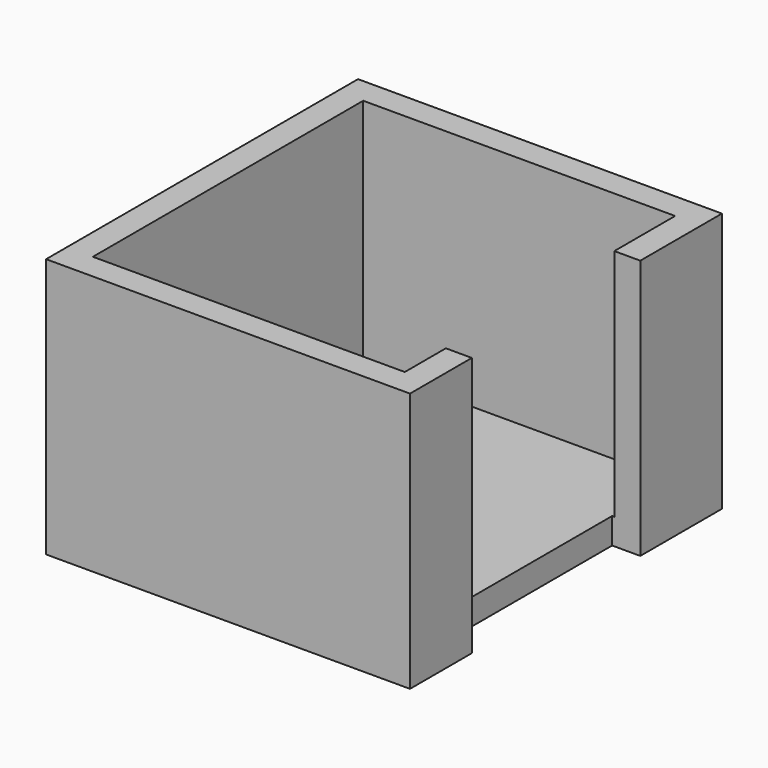
from build123d import *

# Parameters (mm, degrees)
F0_W     = 35.56
F0_H     = 38.1
F1_DEPTH = 25.4
F2_T     = -2.54
F3_W     = 25.4
F3_H     = 20.575015
F4_DEPTH = 25.4


with BuildPart() as f1:
    # F0 (on Top) → F1 (new body)
    with BuildSketch(Plane.XY):
        Rectangle(F0_W, F0_H)
    extrude(amount=F1_DEPTH)

    # F2
    f2_openings = [f1.faces().sort_by_distance(p)[0] for p in [
        (0, 0, 25.4),
    ]]
    offset(amount=F2_T, openings=f2_openings)

    # F3 (on Top) → F4 (cut)
    with BuildSketch(Plane.XY):
        with Locations((27.727038, -1.20786)):
            Rectangle(F3_W, F3_H)
    extrude(amount=F4_DEPTH, mode=Mode.SUBTRACT)


solid = f1.part
